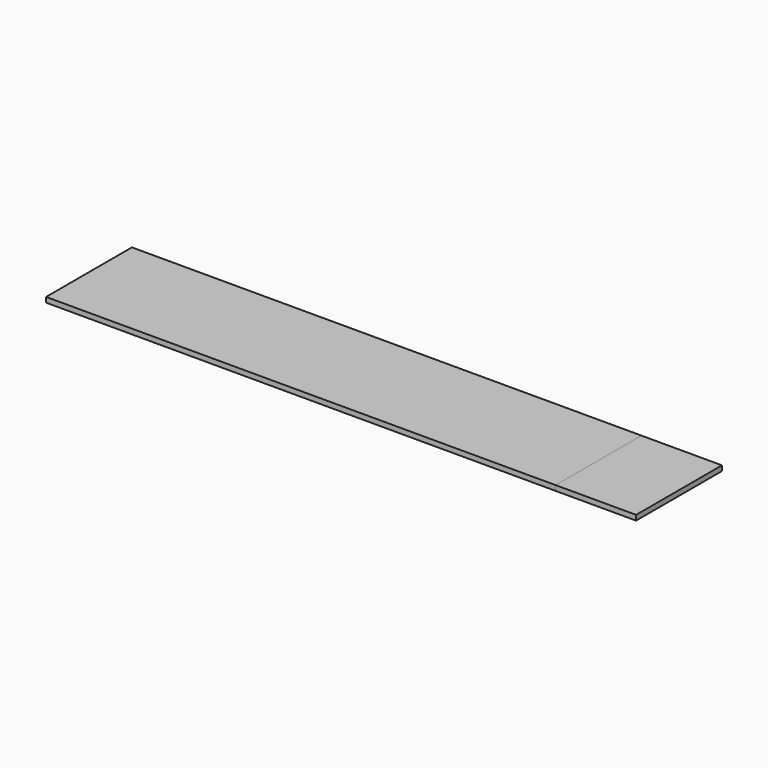
from build123d import *

# Parameters (mm, degrees)
F0_W     = 400
F0_H     = 19
F1_DEPTH = 2200
F2_DEPTH = 1900


with BuildPart() as f1:
    # F0 (on Right) → F1 (new body)
    with BuildSketch(Plane.YZ):
        with Locations((200, 9.5)):
            Rectangle(F0_W, F0_H)
    extrude(amount=F1_DEPTH)


with BuildPart() as f2:
    # F0 (on Right) → F2 (new body)
    with BuildSketch(Plane.YZ):
        with Locations((200, 9.5)):
            Rectangle(F0_W, F0_H)
    extrude(amount=F2_DEPTH)


solid = Compound([f1.part, f2.part])
